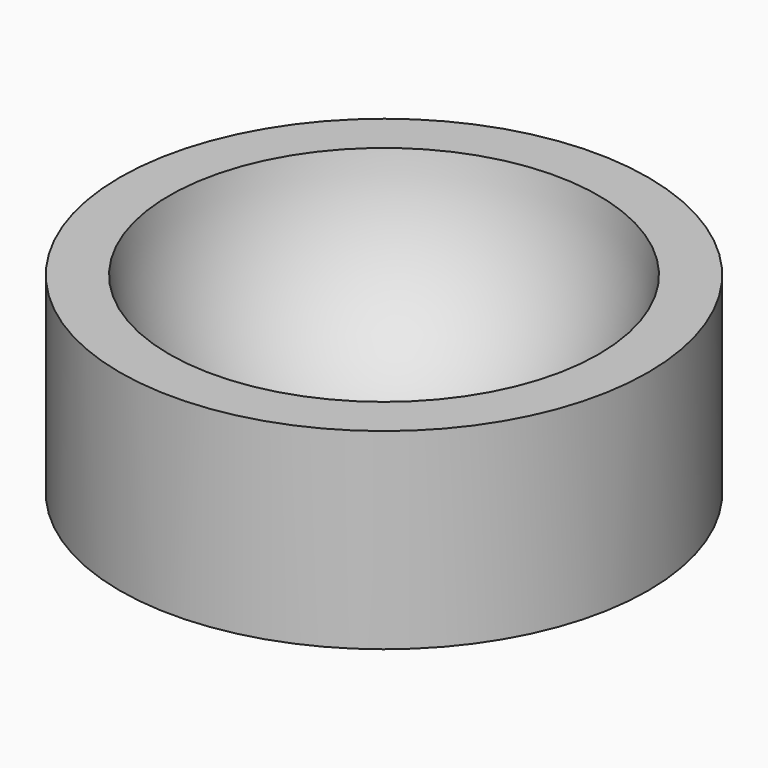
from build123d import *

# Parameters (mm, degrees)
CYLINDER005_R     = 2.75
CYLINDER005_DEPTH = 2


with BuildPart() as sphere004:
    # Sphere004 → Sphere004 (revolve)
    with BuildSketch(Plane(origin=(0, 0, 15.25), x_dir=(1, 0, 0), z_dir=(0, -1, 0))):
        with BuildLine():
            ThreePointArc((0, -2.25), (2.25, 0), (0, 2.25))
            Line((0, 2.25), (0, -2.25))
        make_face()
    revolve(axis=Axis((0, 0, 15.25), (0, 0, 1)))


with BuildPart() as cut002:
    # Cylinder005 → Cylinder005 (new body)
    with BuildSketch(Plane.XY.offset(13)):
        Circle(CYLINDER005_R)
    extrude(amount=CYLINDER005_DEPTH)

    # Cut002: cut Sphere004
    add(sphere004.part, mode=Mode.SUBTRACT)


solid = cut002.part
